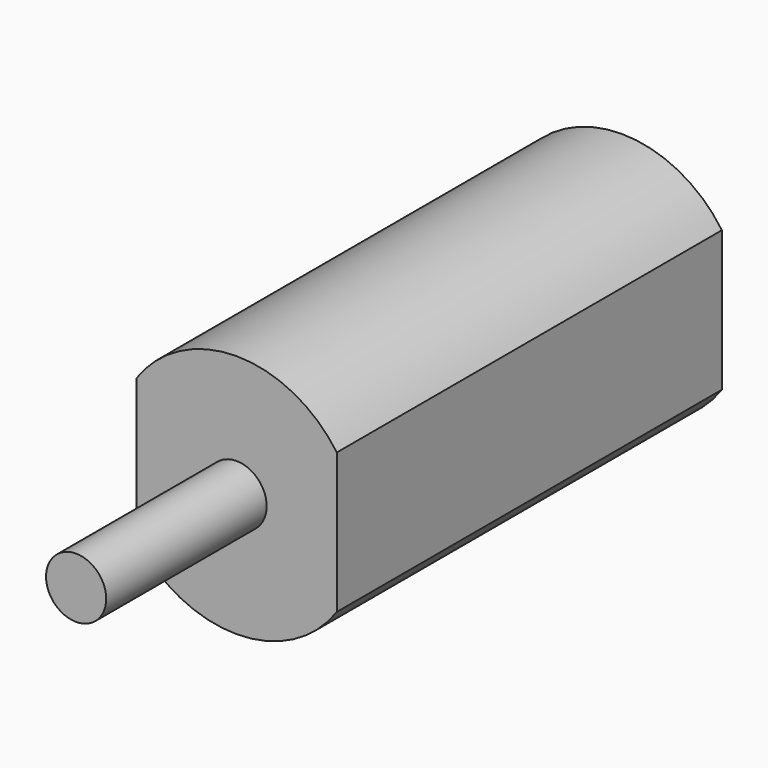
from build123d import *

# Parameters (mm, degrees)
F0_W     = 10
F0_H     = 7
F1_DEPTH = 24
F2_R     = 1.5
F3_DEPTH = 10


with BuildPart() as f1:
    # F0 (on Front) → F1 (new body)
    with BuildSketch(Plane.XZ):
        with BuildLine():
            Line((10, 0), (0, 0))
            ThreePointArc((0, 0), (5, -2.603278), (10, 0))
        make_face()
        with BuildLine():
            ThreePointArc((10, 7), (5, 9.603278), (0, 7))
            Line((0, 7), (10, 7))
        make_face()
        with Locations((5, 3.5)):
            Rectangle(F0_W, F0_H)
    extrude(amount=F1_DEPTH)

    # F2 (on face) → F3 (join)
    with BuildSketch(Plane.XZ.offset(24)):
        with Locations((5, 3.5)):
            Circle(F2_R)
    extrude(amount=F3_DEPTH)


solid = f1.part
